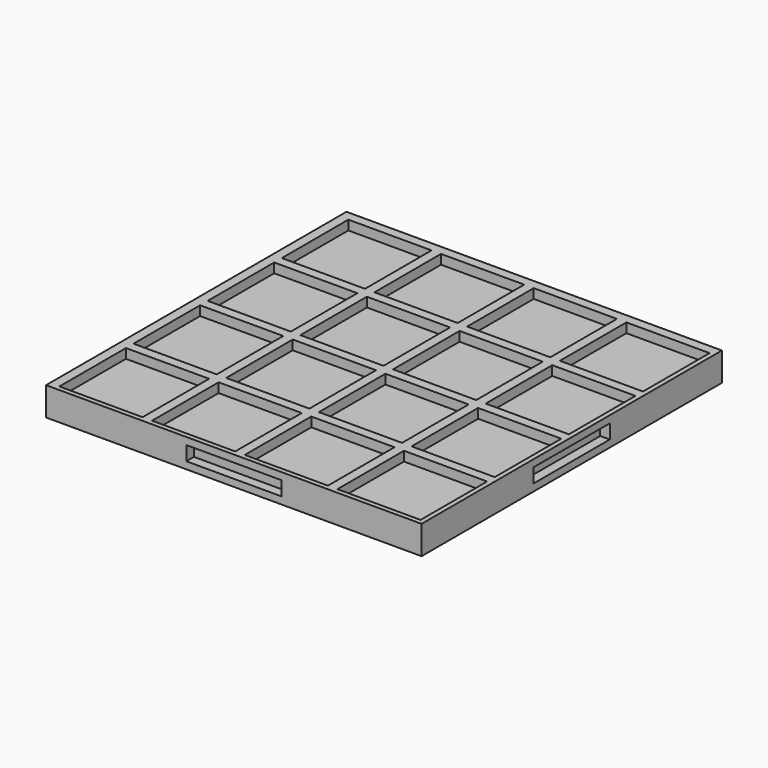
from build123d import *

# Parameters (mm, degrees)
F0_W     = 100.33
F0_H     = 100.33
F1_DEPTH = 7.62
F2_W     = 22.225
F2_H     = 22.225
F3_DEPTH = 2.54
F4_W     = 25.4
F4_H     = 3.81
F6_DEPTH = 2.54
F5_W     = 25.4
F5_H     = 3.81
F7_DEPTH = 2.54


with BuildPart() as f1:
    # F0 (on Top) → F1 (new body)
    with BuildSketch(Plane.XY):
        with Locations((50.165, 50.165)):
            Rectangle(F0_W, F0_H)
    extrude(amount=-F1_DEPTH)

    # F2 (on Top) → F3 (cut)
    with BuildSketch(Plane.XY):
        with Locations((13.6525, 86.6775)):
            Rectangle(F2_W, F2_H)
        with Locations((38.4175, 86.6775)):
            Rectangle(F2_W, F2_H)
        with Locations((63.1825, 86.6775)):
            Rectangle(F2_W, F2_H)
        with Locations((87.9475, 86.6775)):
            Rectangle(F2_W, F2_H)
        with Locations((13.6525, 61.9125)):
            Rectangle(F2_W, F2_H)
        with Locations((13.6525, 37.1475)):
            Rectangle(F2_W, F2_H)
        with Locations((13.6525, 12.3825)):
            Rectangle(F2_W, F2_H)
        with Locations((38.4175, 61.9125)):
            Rectangle(F2_W, F2_H)
        with Locations((63.1825, 61.9125)):
            Rectangle(F2_W, F2_H)
        with Locations((87.9475, 61.9125)):
            Rectangle(F2_W, F2_H)
        with Locations((38.4175, 37.1475)):
            Rectangle(F2_W, F2_H)
        with Locations((38.4175, 12.3825)):
            Rectangle(F2_W, F2_H)
        with Locations((63.1825, 37.1475)):
            Rectangle(F2_W, F2_H)
        with Locations((87.9475, 37.1475)):
            Rectangle(F2_W, F2_H)
        with Locations((63.1825, 12.3825)):
            Rectangle(F2_W, F2_H)
        with Locations((87.9475, 12.3825)):
            Rectangle(F2_W, F2_H)
    extrude(amount=-F3_DEPTH, mode=Mode.SUBTRACT)

    # F4 (on face) → F6 (cut)
    with BuildSketch(Plane.XZ):
        with Locations((50.165, -3.81)):
            Rectangle(F4_W, F4_H)
    extrude(amount=-F6_DEPTH, mode=Mode.SUBTRACT)

    # F5 (on face) → F7 (cut)
    with BuildSketch(Plane.YZ.offset(100.33)):
        with Locations((50.165, -3.81)):
            Rectangle(F5_W, F5_H)
    extrude(amount=-F7_DEPTH, mode=Mode.SUBTRACT)


solid = f1.part
